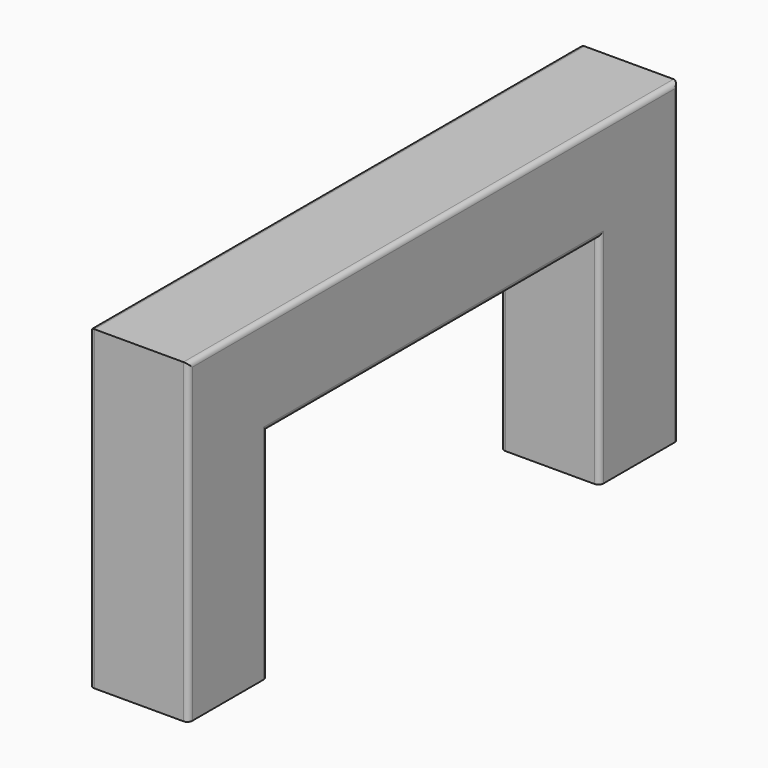
from build123d import *

# Parameters (mm, degrees)
F1_DEPTH = 100
F2_R     = 5


with BuildPart() as f1:
    # F0 (on Right) → F1 (new body)
    with BuildSketch(Plane.YZ):
        Polygon((0, 220), (0, 0), (100, 0), (100, 320), (-520, 320), (-520, 0), (-420, 0), (-420, 220), align=None)
    extrude(amount=F1_DEPTH)

    # F2
    f2_edges = [f1.edges().sort_by_distance(p)[0] for p in [
        (100, -520, 160),
        (100, -420, 110),
        (100, -210, 220),
        (100, 0, 110),
        (100, 100, 160),
        (0, -520, 160),
        (0, 0, 110),
        (0, -210, 220),
        (0, -420, 110),
        (0, 100, 160),
        (0, -210, 320),
        (100, -210, 320),
    ]]
    fillet(f2_edges, radius=F2_R)


solid = f1.part
